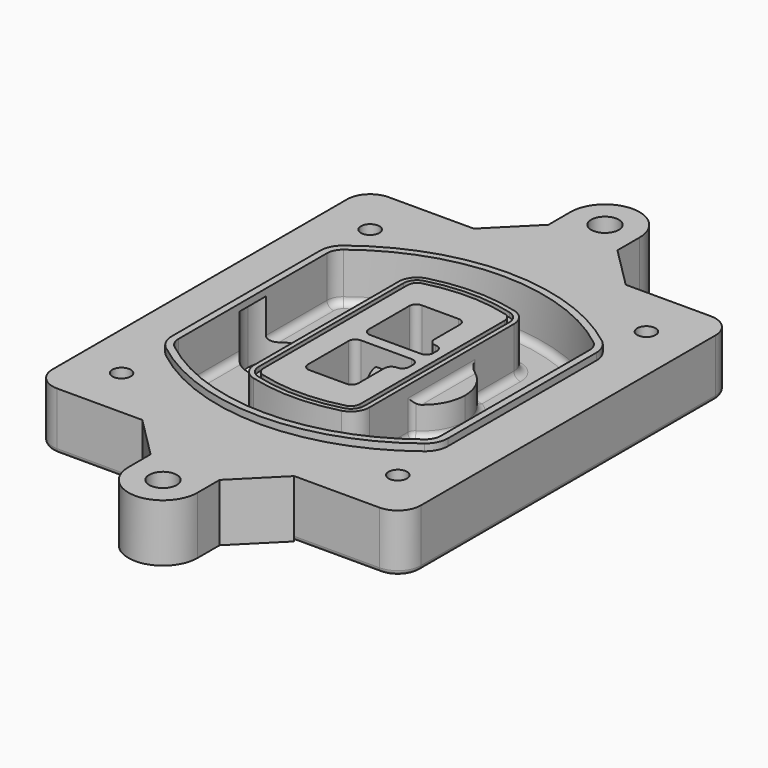
from build123d import *

# Parameters (mm, degrees)
F0_R      = 4
F1_DEPTH  = 25
F2_DEPTH  = 3
F3_DEPTH  = 18
F5_DEPTH  = 21
F6_DEPTH  = 2
F8_DEPTH  = 20
F9_DEPTH  = 16
F10_DEPTH = 25
F7_R      = 6
F7_R_2    = 4
F11_DEPTH = 6
F13_DEPTH = 9
F14_R     = 3
F15_R     = 2
F16_R     = 6
F17_DEPTH = 25


with BuildPart() as f1:
    # F0 (on Top) → F1 (new body)
    with BuildSketch(Plane.XY):
        with BuildLine():
            ThreePointArc((14.05, 38.3825811321), (16.9789321881, 31.3115133202), (24.05, 28.3825811321))
            Line((24.05, 28.3825811321), (164.05, 28.3825811321))
            ThreePointArc((164.05, 28.3825811321), (171.1210678119, 31.3115133202), (174.05, 38.3825811321))
            Line((174.05, 38.3825811321), (174.05, 198.3825811321))
            ThreePointArc((174.05, 198.3825811321), (171.1210678119, 205.4536489439), (164.05, 208.3825811321))
            Line((164.05, 208.3825811321), (24.05, 208.3825811321))
            ThreePointArc((24.05, 208.3825811321), (16.9789321881, 205.4536489439), (14.05, 198.3825811321))
            Line((14.05, 198.3825811321), (14.05, 38.3825811321))
        make_face()
        with Locations((34.05, 50.8825811321)):
            Circle(F0_R, mode=Mode.SUBTRACT)
        with Locations((154.05, 50.8825811321)):
            Circle(F0_R, mode=Mode.SUBTRACT)
        with BuildLine():
            ThreePointArc((30.05, 158.6760234193), (31.4679615202, 164.8154295545), (35.4346153846, 169.7112011673))
            ThreePointArc((35.4346153846, 169.7112011673), (94.05, 189.8825811321), (152.6653846154, 169.7112011673))
            ThreePointArc((152.6653846154, 169.7112011673), (156.6320384798, 164.8154295545), (158.05, 158.6760234193))
            Line((158.05, 158.6760234193), (158.05, 78.0891388448))
            ThreePointArc((158.05, 78.0891388448), (156.6320384798, 71.9497327097), (152.6653846154, 67.0539610969))
            ThreePointArc((152.6653846154, 67.0539610969), (94.05, 46.8825811321), (35.4346153846, 67.0539610969))
            ThreePointArc((35.4346153846, 67.0539610969), (31.4679615202, 71.9497327097), (30.05, 78.0891388448))
            Line((30.05, 78.0891388448), (30.05, 158.6760234193))
        make_face(mode=Mode.SUBTRACT)
        with Locations((34.05, 185.8825811321)):
            Circle(F0_R, mode=Mode.SUBTRACT)
        with Locations((154.05, 185.8825811321)):
            Circle(F0_R, mode=Mode.SUBTRACT)
        with BuildLine():
            ThreePointArc((152.6653846154, 169.7112011673), (94.05, 189.8825811321), (35.4346153846, 169.7112011673))
            ThreePointArc((35.4346153846, 169.7112011673), (31.4679615202, 164.8154295545), (30.05, 158.6760234193))
            Line((30.05, 158.6760234193), (30.05, 78.0891388448))
            ThreePointArc((30.05, 78.0891388448), (31.4679615202, 71.9497327097), (35.4346153846, 67.0539610969))
            ThreePointArc((35.4346153846, 67.0539610969), (94.05, 46.8825811321), (152.6653846154, 67.0539610969))
            ThreePointArc((152.6653846154, 67.0539610969), (156.6320384798, 71.9497327097), (158.05, 78.0891388448))
            Line((158.05, 78.0891388448), (158.05, 158.6760234193))
            ThreePointArc((158.05, 158.6760234193), (156.6320384798, 164.8154295545), (152.6653846154, 169.7112011673))
        make_face()
        with BuildLine():
            Line((34.05, 78.0891388448), (34.05, 158.6760234193))
            ThreePointArc((34.05, 158.6760234193), (35.0628296573, 163.0613135158), (37.8961538462, 166.5582932393))
            ThreePointArc((37.8961538462, 166.5582932393), (94.05, 185.8825811321), (150.2038461538, 166.5582932393))
            ThreePointArc((150.2038461538, 166.5582932393), (153.0371703427, 163.0613135158), (154.05, 158.6760234193))
            Line((154.05, 158.6760234193), (154.05, 78.0891388448))
            ThreePointArc((154.05, 78.0891388448), (153.0371703427, 73.7038487483), (150.2038461538, 70.2068690248))
            ThreePointArc((150.2038461538, 70.2068690248), (94.05, 50.8825811321), (37.8961538462, 70.2068690248))
            ThreePointArc((37.8961538462, 70.2068690248), (35.0628296573, 73.7038487483), (34.05, 78.0891388448))
        make_face(mode=Mode.SUBTRACT)
        with BuildLine():
            ThreePointArc((37.8961538462, 166.5582932393), (35.0628296573, 163.0613135158), (34.05, 158.6760234193))
            Line((34.05, 158.6760234193), (34.05, 78.0891388448))
            ThreePointArc((34.05, 78.0891388448), (35.0628296573, 73.7038487483), (37.8961538462, 70.2068690248))
            ThreePointArc((37.8961538462, 70.2068690248), (94.05, 50.8825811321), (150.2038461538, 70.2068690248))
            ThreePointArc((150.2038461538, 70.2068690248), (153.0371703427, 73.7038487483), (154.05, 78.0891388448))
            Line((154.05, 78.0891388448), (154.05, 158.6760234193))
            ThreePointArc((154.05, 158.6760234193), (153.0371703427, 163.0613135158), (150.2038461538, 166.5582932393))
            ThreePointArc((150.2038461538, 166.5582932393), (94.05, 185.8825811321), (37.8961538462, 166.5582932393))
        make_face()
        with BuildLine():
            ThreePointArc((148.3576923077, 164.1936122933), (150.3410192399, 161.7457264869), (151.05, 158.6760234193))
            Line((151.05, 158.6760234193), (151.05, 78.0891388448))
            ThreePointArc((151.05, 78.0891388448), (150.3410192399, 75.0194357772), (148.3576923077, 72.5715499708))
            ThreePointArc((148.3576923077, 72.5715499708), (94.05, 53.8825811321), (39.7423076923, 72.5715499708))
            ThreePointArc((39.7423076923, 72.5715499708), (37.7589807601, 75.0194357772), (37.05, 78.0891388448))
            Line((37.05, 78.0891388448), (37.05, 158.6760234193))
            ThreePointArc((37.05, 158.6760234193), (37.7589807601, 161.7457264869), (39.7423076923, 164.1936122933))
            ThreePointArc((39.7423076923, 164.1936122933), (94.05, 182.8825811321), (148.3576923077, 164.1936122933))
        make_face(mode=Mode.SUBTRACT)
        with BuildLine():
            Line((151.05, 78.0891388448), (151.05, 158.6760234193))
            ThreePointArc((151.05, 158.6760234193), (150.3410192399, 161.7457264869), (148.3576923077, 164.1936122933))
            ThreePointArc((148.3576923077, 164.1936122933), (94.05, 182.8825811321), (39.7423076923, 164.1936122933))
            ThreePointArc((39.7423076923, 164.1936122933), (37.7589807601, 161.7457264869), (37.05, 158.6760234193))
            Line((37.05, 158.6760234193), (37.05, 78.0891388448))
            ThreePointArc((37.05, 78.0891388448), (37.7589807601, 75.0194357772), (39.7423076923, 72.5715499708))
            ThreePointArc((39.7423076923, 72.5715499708), (94.05, 53.8825811321), (148.3576923077, 72.5715499708))
            ThreePointArc((148.3576923077, 72.5715499708), (150.3410192399, 75.0194357772), (151.05, 78.0891388448))
        make_face()
    extrude(amount=-F1_DEPTH)

    # F0 (on Top) → F2 (join)
    with BuildSketch(Plane.XY):
        with BuildLine():
            ThreePointArc((37.8961538462, 166.5582932393), (35.0628296573, 163.0613135158), (34.05, 158.6760234193))
            Line((34.05, 158.6760234193), (34.05, 78.0891388448))
            ThreePointArc((34.05, 78.0891388448), (35.0628296573, 73.7038487483), (37.8961538462, 70.2068690248))
            ThreePointArc((37.8961538462, 70.2068690248), (94.05, 50.8825811321), (150.2038461538, 70.2068690248))
            ThreePointArc((150.2038461538, 70.2068690248), (153.0371703427, 73.7038487483), (154.05, 78.0891388448))
            Line((154.05, 78.0891388448), (154.05, 158.6760234193))
            ThreePointArc((154.05, 158.6760234193), (153.0371703427, 163.0613135158), (150.2038461538, 166.5582932393))
            ThreePointArc((150.2038461538, 166.5582932393), (94.05, 185.8825811321), (37.8961538462, 166.5582932393))
        make_face()
        with BuildLine():
            ThreePointArc((148.3576923077, 164.1936122933), (150.3410192399, 161.7457264869), (151.05, 158.6760234193))
            Line((151.05, 158.6760234193), (151.05, 78.0891388448))
            ThreePointArc((151.05, 78.0891388448), (150.3410192399, 75.0194357772), (148.3576923077, 72.5715499708))
            ThreePointArc((148.3576923077, 72.5715499708), (94.05, 53.8825811321), (39.7423076923, 72.5715499708))
            ThreePointArc((39.7423076923, 72.5715499708), (37.7589807601, 75.0194357772), (37.05, 78.0891388448))
            Line((37.05, 78.0891388448), (37.05, 158.6760234193))
            ThreePointArc((37.05, 158.6760234193), (37.7589807601, 161.7457264869), (39.7423076923, 164.1936122933))
            ThreePointArc((39.7423076923, 164.1936122933), (94.05, 182.8825811321), (148.3576923077, 164.1936122933))
        make_face(mode=Mode.SUBTRACT)
    extrude(amount=F2_DEPTH)

    # F0 (on Top) → F3 (cut)
    with BuildSketch(Plane.XY):
        with BuildLine():
            Line((151.05, 78.0891388448), (151.05, 158.6760234193))
            ThreePointArc((151.05, 158.6760234193), (150.3410192399, 161.7457264869), (148.3576923077, 164.1936122933))
            ThreePointArc((148.3576923077, 164.1936122933), (94.05, 182.8825811321), (39.7423076923, 164.1936122933))
            ThreePointArc((39.7423076923, 164.1936122933), (37.7589807601, 161.7457264869), (37.05, 158.6760234193))
            Line((37.05, 158.6760234193), (37.05, 78.0891388448))
            ThreePointArc((37.05, 78.0891388448), (37.7589807601, 75.0194357772), (39.7423076923, 72.5715499708))
            ThreePointArc((39.7423076923, 72.5715499708), (94.05, 53.8825811321), (148.3576923077, 72.5715499708))
            ThreePointArc((148.3576923077, 72.5715499708), (150.3410192399, 75.0194357772), (151.05, 78.0891388448))
        make_face()
    extrude(amount=-F3_DEPTH, mode=Mode.SUBTRACT)

    # F4 (on face) → F5 (join, through all)
    with BuildSketch(Plane.XY.offset(3)):
        with BuildLine():
            ThreePointArc((69.05, 79.13605345), (70.6988454002, 74.2716074128), (74.9657088123, 71.4123412437))
            ThreePointArc((74.9657088123, 71.4123412437), (94.05, 68.8825811321), (113.1342911877, 71.4123412437))
            ThreePointArc((113.1342911877, 71.4123412437), (117.4011545998, 74.2716074128), (119.05, 79.13605345))
            Line((119.05, 79.13605345), (119.05, 157.6291088141))
            ThreePointArc((119.05, 157.6291088141), (117.4011545998, 162.4935548514), (113.1342911877, 165.3528210204))
            ThreePointArc((113.1342911877, 165.3528210204), (94.05, 167.8825811321), (74.9657088123, 165.3528210204))
            ThreePointArc((74.9657088123, 165.3528210204), (70.6988454002, 162.4935548514), (69.05, 157.6291088141))
            Line((69.05, 157.6291088141), (69.05, 79.13605345))
        make_face()
        with BuildLine():
            ThreePointArc((112.6132183908, 163.4218929688), (115.8133659499, 161.2774433421), (117.05, 157.6291088141))
            Line((117.05, 157.6291088141), (117.05, 79.13605345))
            ThreePointArc((117.05, 79.13605345), (115.8133659499, 75.4877189221), (112.6132183908, 73.3432692953))
            ThreePointArc((112.6132183908, 73.3432692953), (94.05, 70.8825811321), (75.4867816092, 73.3432692953))
            ThreePointArc((75.4867816092, 73.3432692953), (72.2866340501, 75.4877189221), (71.05, 79.13605345))
            Line((71.05, 79.13605345), (71.05, 157.6291088141))
            ThreePointArc((71.05, 157.6291088141), (72.2866340501, 161.2774433421), (75.4867816092, 163.4218929688))
            ThreePointArc((75.4867816092, 163.4218929688), (94.05, 165.8825811321), (112.6132183908, 163.4218929688))
        make_face(mode=Mode.SUBTRACT)
        with BuildLine():
            Line((117.05, 79.13605345), (117.05, 157.6291088141))
            ThreePointArc((117.05, 157.6291088141), (115.8133659499, 161.2774433421), (112.6132183908, 163.4218929688))
            ThreePointArc((112.6132183908, 163.4218929688), (94.05, 165.8825811321), (75.4867816092, 163.4218929688))
            ThreePointArc((75.4867816092, 163.4218929688), (72.2866340501, 161.2774433421), (71.05, 157.6291088141))
            Line((71.05, 157.6291088141), (71.05, 79.13605345))
            ThreePointArc((71.05, 79.13605345), (72.2866340501, 75.4877189221), (75.4867816092, 73.3432692953))
            ThreePointArc((75.4867816092, 73.3432692953), (94.05, 70.8825811321), (112.6132183908, 73.3432692953))
            ThreePointArc((112.6132183908, 73.3432692953), (115.8133659499, 75.4877189221), (117.05, 79.13605345))
        make_face()
        with BuildLine():
            ThreePointArc((112.0921455939, 161.4909649173), (114.2255772999, 160.0613318328), (115.05, 157.6291088141))
            Line((115.05, 157.6291088141), (115.05, 79.13605345))
            ThreePointArc((115.05, 79.13605345), (114.2255772999, 76.7038304314), (112.0921455939, 75.2741973469))
            ThreePointArc((112.0921455939, 75.2741973469), (94.05, 72.8825811321), (76.0078544061, 75.2741973469))
            ThreePointArc((76.0078544061, 75.2741973469), (73.8744227001, 76.7038304314), (73.05, 79.13605345))
            Line((73.05, 79.13605345), (73.05, 157.6291088141))
            ThreePointArc((73.05, 157.6291088141), (73.8744227001, 160.0613318328), (76.0078544061, 161.4909649173))
            ThreePointArc((76.0078544061, 161.4909649173), (94.05, 163.8825811321), (112.0921455939, 161.4909649173))
        make_face(mode=Mode.SUBTRACT)
        with BuildLine():
            Line((115.05, 79.13605345), (115.05, 157.6291088141))
            ThreePointArc((115.05, 157.6291088141), (114.2255772999, 160.0613318328), (112.0921455939, 161.4909649173))
            ThreePointArc((112.0921455939, 161.4909649173), (94.05, 163.8825811321), (76.0078544061, 161.4909649173))
            ThreePointArc((76.0078544061, 161.4909649173), (73.8744227001, 160.0613318328), (73.05, 157.6291088141))
            Line((73.05, 157.6291088141), (73.05, 79.13605345))
            ThreePointArc((73.05, 79.13605345), (73.8744227001, 76.7038304314), (76.0078544061, 75.2741973469))
            ThreePointArc((76.0078544061, 75.2741973469), (94.05, 72.8825811321), (112.0921455939, 75.2741973469))
            ThreePointArc((112.0921455939, 75.2741973469), (114.2255772999, 76.7038304314), (115.05, 79.13605345))
        make_face()
        with BuildLine():
            Line((86.05, 115.8825811321), (108.05, 115.8825811321))
            ThreePointArc((108.05, 115.8825811321), (110.1713203436, 115.0039014756), (111.05, 112.8825811321))
            Line((111.05, 112.8825811321), (111.05, 110.8825811321))
            ThreePointArc((111.05, 110.8825811321), (110.1713203436, 108.7612607885), (108.05, 107.8825811321))
            ThreePointArc((108.05, 107.8825811321), (105.9286796564, 107.0039014756), (105.05, 104.8825811321))
            Line((105.05, 104.8825811321), (105.05, 90.8825811321))
            ThreePointArc((105.05, 90.8825811321), (104.1713203436, 88.7612607885), (102.05, 87.8825811321))
            Line((102.05, 87.8825811321), (86.05, 87.8825811321))
            ThreePointArc((86.05, 87.8825811321), (83.9286796564, 88.7612607885), (83.05, 90.8825811321))
            Line((83.05, 90.8825811321), (83.05, 112.8825811321))
            ThreePointArc((83.05, 112.8825811321), (83.9286796564, 115.0039014756), (86.05, 115.8825811321))
        make_face(mode=Mode.SUBTRACT)
        with BuildLine():
            ThreePointArc((86.05, 120.8825811321), (83.9286796564, 121.7612607885), (83.05, 123.8825811321))
            Line((83.05, 123.8825811321), (83.05, 145.8825811321))
            ThreePointArc((83.05, 145.8825811321), (83.9286796564, 148.0039014756), (86.05, 148.8825811321))
            Line((86.05, 148.8825811321), (102.05, 148.8825811321))
            ThreePointArc((102.05, 148.8825811321), (104.1713203436, 148.0039014756), (105.05, 145.8825811321))
            Line((105.05, 145.8825811321), (105.05, 131.8825811321))
            ThreePointArc((105.05, 131.8825811321), (105.9286796564, 129.7612607885), (108.05, 128.8825811321))
            ThreePointArc((108.05, 128.8825811321), (110.1713203436, 128.0039014756), (111.05, 125.8825811321))
            Line((111.05, 125.8825811321), (111.05, 123.8825811321))
            ThreePointArc((111.05, 123.8825811321), (110.1713203436, 121.7612607885), (108.05, 120.8825811321))
            Line((108.05, 120.8825811321), (86.05, 120.8825811321))
        make_face(mode=Mode.SUBTRACT)
    extrude(amount=-F5_DEPTH)

    # F4 (on face) → F6 (cut)
    with BuildSketch(Plane.XY.offset(3)):
        with BuildLine():
            Line((117.05, 79.13605345), (117.05, 157.6291088141))
            ThreePointArc((117.05, 157.6291088141), (115.8133659499, 161.2774433421), (112.6132183908, 163.4218929688))
            ThreePointArc((112.6132183908, 163.4218929688), (94.05, 165.8825811321), (75.4867816092, 163.4218929688))
            ThreePointArc((75.4867816092, 163.4218929688), (72.2866340501, 161.2774433421), (71.05, 157.6291088141))
            Line((71.05, 157.6291088141), (71.05, 79.13605345))
            ThreePointArc((71.05, 79.13605345), (72.2866340501, 75.4877189221), (75.4867816092, 73.3432692953))
            ThreePointArc((75.4867816092, 73.3432692953), (94.05, 70.8825811321), (112.6132183908, 73.3432692953))
            ThreePointArc((112.6132183908, 73.3432692953), (115.8133659499, 75.4877189221), (117.05, 79.13605345))
        make_face()
        with BuildLine():
            ThreePointArc((112.0921455939, 161.4909649173), (114.2255772999, 160.0613318328), (115.05, 157.6291088141))
            Line((115.05, 157.6291088141), (115.05, 79.13605345))
            ThreePointArc((115.05, 79.13605345), (114.2255772999, 76.7038304314), (112.0921455939, 75.2741973469))
            ThreePointArc((112.0921455939, 75.2741973469), (94.05, 72.8825811321), (76.0078544061, 75.2741973469))
            ThreePointArc((76.0078544061, 75.2741973469), (73.8744227001, 76.7038304314), (73.05, 79.13605345))
            Line((73.05, 79.13605345), (73.05, 157.6291088141))
            ThreePointArc((73.05, 157.6291088141), (73.8744227001, 160.0613318328), (76.0078544061, 161.4909649173))
            ThreePointArc((76.0078544061, 161.4909649173), (94.05, 163.8825811321), (112.0921455939, 161.4909649173))
        make_face(mode=Mode.SUBTRACT)
    extrude(amount=-F6_DEPTH, mode=Mode.SUBTRACT)

    # F7 (on face) → F8 (join)
    with BuildSketch(Plane(origin=(0, 0, -25), x_dir=(1, 0, 0), z_dir=(0, 0, -1))):
        with BuildLine():
            ThreePointArc((97.33842436, -118.3825811321), (110.8067035675, -104.9143019245), (124.274982775, -118.3825811321))
            Line((124.274982775, -118.3825811321), (129.274982775, -118.3825811321))
            ThreePointArc((129.274982775, -118.3825811321), (110.8067035675, -99.9143019245), (92.33842436, -118.3825811321))
            Line((92.33842436, -118.3825811321), (97.33842436, -118.3825811321))
        make_face()
        with BuildLine():
            Line((97.33842436, -118.3825811321), (124.274982775, -118.3825811321))
            ThreePointArc((124.274982775, -118.3825811321), (110.8067035675, -104.9143019245), (97.33842436, -118.3825811321))
        make_face()
        with BuildLine():
            ThreePointArc((97.33842436, -118.3825811321), (110.8067035675, -131.8508603396), (124.274982775, -118.3825811321))
            Line((124.274982775, -118.3825811321), (97.33842436, -118.3825811321))
        make_face()
        with BuildLine():
            Line((129.274982775, -118.3825811321), (124.274982775, -118.3825811321))
            ThreePointArc((124.274982775, -118.3825811321), (110.8067035675, -131.8508603396), (97.33842436, -118.3825811321))
            Line((97.33842436, -118.3825811321), (92.33842436, -118.3825811321))
            ThreePointArc((92.33842436, -118.3825811321), (110.8067035675, -136.8508603396), (129.274982775, -118.3825811321))
        make_face()
    extrude(amount=-F8_DEPTH)

    # F7 (on face) → F9 (cut)
    with BuildSketch(Plane(origin=(0, 0, -25), x_dir=(1, 0, 0), z_dir=(0, 0, -1))):
        with BuildLine():
            Line((97.33842436, -118.3825811321), (124.274982775, -118.3825811321))
            ThreePointArc((124.274982775, -118.3825811321), (110.8067035675, -104.9143019245), (97.33842436, -118.3825811321))
        make_face()
        with BuildLine():
            ThreePointArc((97.33842436, -118.3825811321), (110.8067035675, -131.8508603396), (124.274982775, -118.3825811321))
            Line((124.274982775, -118.3825811321), (97.33842436, -118.3825811321))
        make_face()
    extrude(amount=-F9_DEPTH, mode=Mode.SUBTRACT)

    # F7 (on face) → F10 (cut)
    with BuildSketch(Plane(origin=(0, 0, -25), x_dir=(1, 0, 0), z_dir=(0, 0, -1))):
        with BuildLine():
            Line((35.0181770675, -118.3825811321), (61.9547354825, -118.3825811321))
            ThreePointArc((61.9547354825, -118.3825811321), (48.486456275, -104.9143019245), (35.0181770675, -118.3825811321))
        make_face()
        with BuildLine():
            ThreePointArc((35.0181770675, -118.3825811321), (48.486456275, -131.8508603396), (61.9547354825, -118.3825811321))
            Line((61.9547354825, -118.3825811321), (35.0181770675, -118.3825811321))
        make_face()
    extrude(amount=-F10_DEPTH, mode=Mode.SUBTRACT)

    # F7 (on face) → F11 (cut)
    with BuildSketch(Plane(origin=(0, 0, -25), x_dir=(1, 0, 0), z_dir=(0, 0, -1))):
        with Locations((154.05, -185.8825811321)):
            Circle(F7_R)
        with Locations((154.05, -185.8825811321)):
            Circle(F7_R_2, mode=Mode.SUBTRACT)
        with Locations((154.05, -185.8825811321)):
            Circle(F7_R)
        with Locations((154.05, -185.8825811321)):
            Circle(F7_R_2, mode=Mode.SUBTRACT)
        with Locations((34.05, -185.8825811321)):
            Circle(F7_R)
        with Locations((34.05, -185.8825811321)):
            Circle(F7_R_2, mode=Mode.SUBTRACT)
        with Locations((34.05, -185.8825811321)):
            Circle(F7_R)
        with Locations((34.05, -185.8825811321)):
            Circle(F7_R_2, mode=Mode.SUBTRACT)
        with Locations((34.05, -50.8825811321)):
            Circle(F7_R)
        with Locations((34.05, -50.8825811321)):
            Circle(F7_R_2, mode=Mode.SUBTRACT)
        with Locations((34.05, -50.8825811321)):
            Circle(F7_R)
        with Locations((34.05, -50.8825811321)):
            Circle(F7_R_2, mode=Mode.SUBTRACT)
        with Locations((154.05, -50.8825811321)):
            Circle(F7_R)
        with Locations((154.05, -50.8825811321)):
            Circle(F7_R_2, mode=Mode.SUBTRACT)
        with Locations((154.05, -50.8825811321)):
            Circle(F7_R)
        with Locations((154.05, -50.8825811321)):
            Circle(F7_R_2, mode=Mode.SUBTRACT)
    extrude(amount=-F11_DEPTH, mode=Mode.SUBTRACT)

    # F12 (on face) → F13 (cut, through all)
    with BuildSketch(Plane(origin=(0, 0, -9), x_dir=(1, 0, 0), z_dir=(0, 0, -1))):
        with BuildLine():
            Line((105.05, -104.8825811321), (105.05, -100.8344273567))
            ThreePointArc((105.05, -100.8344273567), (96.6196536419, -106.5586667507), (92.5084157545, -115.8825811321))
            Line((92.5084157545, -115.8825811321), (97.5724848595, -115.8825811321))
            ThreePointArc((97.5724848595, -115.8825811321), (100.2357188154, -110.0369939039), (105.3036447004, -106.0898642673))
            ThreePointArc((105.3036447004, -106.0898642673), (105.1140958889, -105.4994012441), (105.05, -104.8825811321))
        make_face()
        with BuildLine():
            ThreePointArc((105.3036447004, -130.6752979968), (100.2357188154, -126.7281683602), (97.5724848595, -120.8825811321))
            Line((97.5724848595, -120.8825811321), (92.5084157545, -120.8825811321))
            ThreePointArc((92.5084157545, -120.8825811321), (96.6196536419, -130.2064955134), (105.05, -135.9307349074))
            Line((105.05, -135.9307349074), (105.05, -131.8825811321))
            ThreePointArc((105.05, -131.8825811321), (105.1140958889, -131.26576102), (105.3036447004, -130.6752979968))
        make_face()
        with BuildLine():
            ThreePointArc((105.3036447004, -106.0898642673), (100.2357188154, -110.0369939039), (97.5724848595, -115.8825811321))
            Line((97.5724848595, -115.8825811321), (108.05, -115.8825811321))
            ThreePointArc((108.05, -115.8825811321), (110.1713203436, -115.0039014756), (111.05, -112.8825811321))
            Line((111.05, -112.8825811321), (111.05, -110.8825811321))
            ThreePointArc((111.05, -110.8825811321), (110.1713203436, -108.7612607885), (108.05, -107.8825811321))
            ThreePointArc((108.05, -107.8825811321), (106.4101599782, -107.3947365219), (105.3036447004, -106.0898642673))
        make_face()
        with BuildLine():
            Line((108.05, -120.8825811321), (97.5724848595, -120.8825811321))
            ThreePointArc((97.5724848595, -120.8825811321), (100.2357188154, -126.7281683602), (105.3036447004, -130.6752979968))
            ThreePointArc((105.3036447004, -130.6752979968), (106.4101599782, -129.3704257422), (108.05, -128.8825811321))
            ThreePointArc((108.05, -128.8825811321), (110.1713203436, -128.0039014756), (111.05, -125.8825811321))
            Line((111.05, -125.8825811321), (111.05, -123.8825811321))
            ThreePointArc((111.05, -123.8825811321), (110.1713203436, -121.7612607885), (108.05, -120.8825811321))
        make_face()
    extrude(amount=F13_DEPTH, mode=Mode.SUBTRACT)

    # F14
    f14_edges = [f1.edges().sort_by_distance(p)[0] for p in [
        (37.05, 94.679105, -18),
        (37.05, 142.086057, -18),
        (119.05, 118.382581, -5),
        (119.05, 134.909087, -11.5),
        (119.05, 101.856075, -11.5),
        (119.05, 90.496064, -18),
        (129.274983, 118.382581, -18),
    ]]
    fillet(f14_edges, radius=F14_R)

    # F15
    f15_edges = [f1.edges().sort_by_distance(p)[0] for p in [
        (94.05, 28.382581, -25),
    ]]
    fillet(f15_edges, radius=F15_R)

    # F16 (on face) → F17 (join, through all)
    with BuildSketch(Plane.XY):
        with BuildLine():
            Line((79.05, 226.3825811321), (61.05, 208.3825811321))
            Line((61.05, 208.3825811321), (127.05, 208.3825811321))
            Line((127.05, 208.3825811321), (109.05, 226.3825811321))
            Line((109.05, 226.3825811321), (109.05, 238.3825811321))
            ThreePointArc((109.05, 238.3825811321), (94.05, 253.3825811321), (79.05, 238.3825811321))
            Line((79.05, 238.3825811321), (79.05, 226.3825811321))
        make_face()
        with Locations((94.05, 238.3825811321)):
            Circle(F16_R, mode=Mode.SUBTRACT)
        with BuildLine():
            Line((127.05, 28.3825811321), (61.05, 28.3825811321))
            Line((61.05, 28.3825811321), (79.05, 10.3825811321))
            Line((79.05, 10.3825811321), (79.05, -1.6174188679))
            ThreePointArc((79.05, -1.6174188679), (94.05, -16.6174188679), (109.05, -1.6174188679))
            Line((109.05, -1.6174188679), (109.05, 10.3825811321))
            Line((109.05, 10.3825811321), (127.05, 28.3825811321))
        make_face()
        with Locations((94.05, -1.6174188679)):
            Circle(F16_R, mode=Mode.SUBTRACT)
    extrude(amount=-F17_DEPTH)


solid = f1.part
